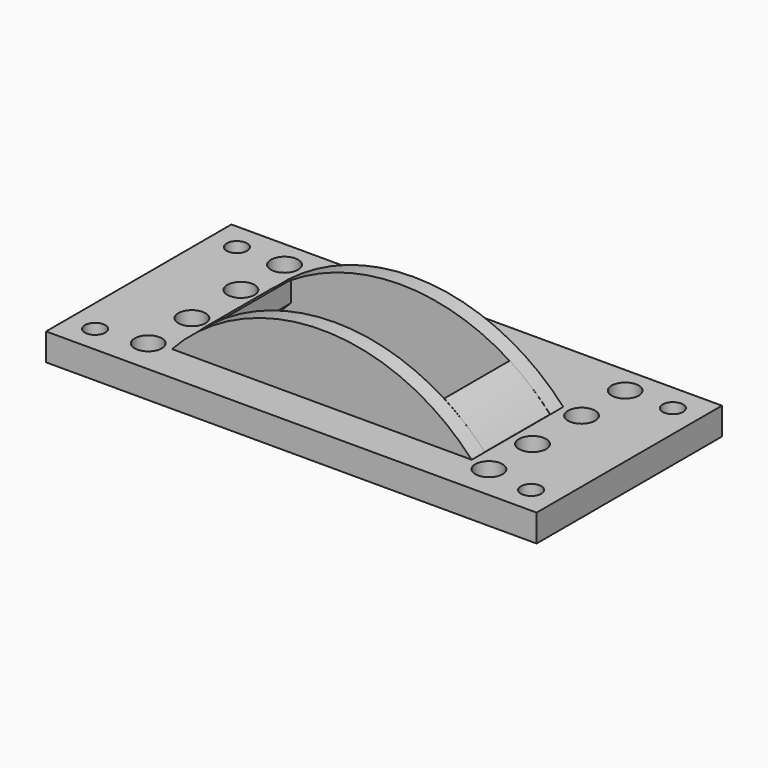
from build123d import *

# Parameters (mm, degrees)
SKETCH005_W         = 180
SKETCH005_H         = 85
SKETCH005_R         = 3.75
SKETCH005_W_2       = 110
SKETCH005_H_2       = 30
PAD005_DEPTH        = 10
PAD006_DEPTH        = 6
PAD007_DEPTH        = 6
HOLE005_D           = 5.5
HOLE005_DEPTH       = 25
HOLE005_CBORE_D     = 10
HOLE005_CBORE_DEPTH = 5.4
PAD025_DEPTH        = 30


with BuildPart() as part:
    # Sketch005 → Pad005 (new body)
    with BuildSketch(Plane.XY):
        with Locations((0, 42.5)):
            Rectangle(SKETCH005_W, SKETCH005_H)
        with Locations((-80, 75)):
            Circle(SKETCH005_R, mode=Mode.SUBTRACT)
        with Locations((80, 75)):
            Circle(SKETCH005_R, mode=Mode.SUBTRACT)
        with Locations((-80, 10)):
            Circle(SKETCH005_R, mode=Mode.SUBTRACT)
        with Locations((80, 10)):
            Circle(SKETCH005_R, mode=Mode.SUBTRACT)
        with Locations((0, 35)):
            Rectangle(SKETCH005_W_2, SKETCH005_H_2, mode=Mode.SUBTRACT)
    extrude(amount=PAD005_DEPTH)

    # Sketch006 → Pad006 (join)
    with BuildSketch(Plane.XZ.offset(-20)):
        with BuildLine():
            Line((-55.000007, 9.999997), (-55.000007, 5))
            Line((-55.000007, 5), (54.999984, 5))
            Line((54.999984, 5), (54.999984, 10.000016))
            ThreePointArc((54.999984, 10.000016), (-1.6e-05, 34.078581), (-55.000007, 9.999997))
        make_face()
    extrude(amount=PAD006_DEPTH)

    # Sketch007 → Pad007 (join)
    with BuildSketch(Plane.XZ.offset(-50)):
        with BuildLine():
            Line((-55.000002, 9.999998), (-55.000002, 5))
            Line((-55.000002, 5), (54.999984, 5))
            Line((54.999984, 5), (54.999984, 10.000017))
            ThreePointArc((54.999984, 10.000017), (-1.3e-05, 34.144872), (-55.000002, 9.999998))
        make_face()
    extrude(amount=-PAD007_DEPTH)

    # Hole005
    with Locations(Plane.XY.offset(10)):
        with Locations((-62.5, 12.5), (-62.5, 32.5), (-62.5, 55), (-62.5, 75), (62.5, 12.5), (62.5, 32.5), (62.5, 55), (62.5, 75)):
            CounterBoreHole(HOLE005_D / 2, HOLE005_CBORE_D / 2, HOLE005_CBORE_DEPTH, depth=HOLE005_DEPTH)

    # Sketch046 → Pad025 (join)
    with BuildSketch(Plane.XZ.offset(-20)):
        with BuildLine():
            ThreePointArc((54.919348, 9.999997), (47.923207, 16.740644), (40.107089, 22.510446))
            Line((40.107089, 22.510446), (40.107089, 15.000094))
            Line((40.107089, 15.000094), (54.919348, 0.019657))
            Line((54.919348, 9.999997), (54.919348, 0.019657))
        make_face()
        with BuildLine():
            ThreePointArc((-40.185018, 22.531307), (-48.003192, 16.751155), (-55.000021, 9.999978))
            Line((-55.000021, 0), (-55.000021, 9.999978))
            Line((-40.185018, 15), (-55.000021, 0))
            Line((-40.185018, 22.531307), (-40.185018, 15))
        make_face()
    extrude(amount=-PAD025_DEPTH)


solid = part.part
